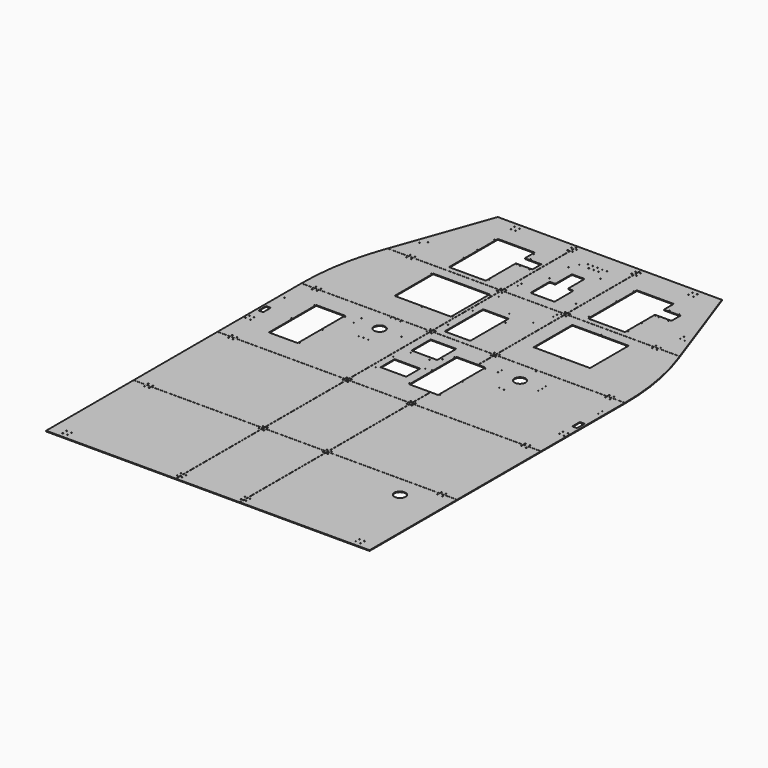
from build123d import *

# Parameters (mm, degrees)
F0_R      = 3
F0_R_2    = 2.05
F0_W      = 160
F0_H      = 110
F0_R_3    = 2.5
F0_H_2    = 150
F1_DEPTH  = 4.5
F2_R      = 3
F2_R_2    = 2.05
F2_W      = 352
F2_H      = 302
F3_DEPTH  = 4.5
F2_R_3    = 2.5
F4_DEPTH  = 4.5
F5_W      = 400
F5_H      = 550
F5_R      = 3
F5_R_2    = 2.05
F5_W_2    = 160
F5_H_2    = 300
F6_DEPTH  = 4.5
F7_W      = 400
F7_H      = 595
F7_R      = 3
F7_R_2    = 2.05
F7_R_3    = 2.5
F8_DEPTH  = 4.5
F9_W      = 810
F9_H      = 655
F9_R      = 3
F9_R_2    = 2.5
F9_W_2    = 30
F9_H_2    = 60
F9_W_3    = 180
F9_H_3    = 370
F9_R_3    = 2.05
F9_R_4    = 35
F10_DEPTH = 4.5
F12_R     = 5
F12_2_R   = 5
F12_3_R   = 5
F12_4_R   = 5
F12_5_R   = 5
F13_W     = 810
F13_H     = 655
F13_R     = 3
F14_DEPTH = 4.5
F15_W     = 400
F15_H     = 655
F15_R     = 3
F16_DEPTH = 4.5
F17_W     = 810
F17_H     = 683
F17_R     = 3
F18_DEPTH = 4.5
F17_R_2   = 35
F19_W     = 400
F19_H     = 683
F19_R     = 3
F20_DEPTH = 4.5
F21_W     = 1017.71641922
F21_H     = 1
F21_W_2   = 1
F21_H_2   = 549
F21_W_3   = 935.9718675613
F21_H_3   = 654
F21_W_4   = 399
F21_H_4   = 796.8422384262
F21_W_5   = 1292.1470518112
F21_W_6   = 1074.7201557159
F21_W_7   = 863.0281324387
F21_W_8   = 874.6051902771
F21_W_9   = 826.4008874893
F21_H_5   = 842.1577615738
F21_W_10  = 869.8097581863
F22_DEPTH = 8.501


with BuildPart() as f1:
    # F0 (on Top) → F1 (new body)
    with BuildSketch(Plane.XY):
        Polygon((-200, -327.5), (200, -327.5), (200, -176.5), (67, -176.5), (67, 193.5), (200, 193.5), (200, 327.5), (-200, 327.5), align=None)
        with Locations((-185, -312.5)):
            Circle(F0_R, mode=Mode.SUBTRACT)
        with Locations((-175, -137.5)):
            Circle(F0_R_2, mode=Mode.SUBTRACT)
        with Locations((-75, -68.5)):
            Rectangle(F0_W, F0_H, mode=Mode.SUBTRACT)
        with Locations((61, -168.5)):
            Circle(F0_R_3, mode=Mode.SUBTRACT)
        with Locations((185, -312.5)):
            Circle(F0_R, mode=Mode.SUBTRACT)
        with Locations((25, -137.5)):
            Circle(F0_R_2, mode=Mode.SUBTRACT)
        with Locations((-175, 0.5)):
            Circle(F0_R_2, mode=Mode.SUBTRACT)
        with Locations((-177.5, 131.5)):
            Circle(F0_R_2, mode=Mode.SUBTRACT)
        with Locations((-134.5, 86.5)):
            Circle(F0_R_2, mode=Mode.SUBTRACT)
        with Locations((-17.5, 86.5)):
            Circle(F0_R_2, mode=Mode.SUBTRACT)
        with Locations((-185, 312.5)):
            Circle(F0_R, mode=Mode.SUBTRACT)
        with Locations((-67.5, 184)):
            Rectangle(F0_W, F0_H_2, mode=Mode.SUBTRACT)
        with Locations((25, 0.5)):
            Circle(F0_R_2, mode=Mode.SUBTRACT)
        with Locations((61, 8.5)):
            Circle(F0_R_3, mode=Mode.SUBTRACT)
        with Locations((27.5, 131.5)):
            Circle(F0_R_2, mode=Mode.SUBTRACT)
        with Locations((61, 185.5)):
            Circle(F0_R_3, mode=Mode.SUBTRACT)
        with Locations((185, 312.5)):
            Circle(F0_R, mode=Mode.SUBTRACT)
    extrude(amount=F1_DEPTH)

    # F12
    f12_edges = [f1.edges().sort_by_distance(p)[0] for p in [
        (-147.5, 109, 2.25),
        (12.5, 109, 2.25),
        (12.5, 259, 2.25),
        (-147.5, 259, 2.25),
    ]]
    fillet(f12_edges, radius=F12_R)


with BuildPart() as f3:
    # F2 (on Top) → F3 (new body)
    with BuildSketch(Plane.XY):
        with BuildLine():
            Line((-200, 327.5), (-200, 877.5))
            Line((-200, 877.5), (-912, 877.5))
            Line((-912, 877.5), (-918.7126851943, 858.6601524029))
            ThreePointArc((-918.7126851943, 858.6601524029), (-986.7602398243, 599.9260960411), (-1010, 333.4046238114))
            Line((-1010, 333.4046238114), (-1010, 327.5))
            Line((-1010, 327.5), (-200, 327.5))
        make_face()
        with Locations((-930, 342.5)):
            Circle(F2_R, mode=Mode.SUBTRACT)
        with Locations((-900, 342.5)):
            Circle(F2_R, mode=Mode.SUBTRACT)
        with Locations((-578.5, 514)):
            Circle(F2_R_2, mode=Mode.SUBTRACT)
        with Locations((-215, 342.5)):
            Circle(F2_R, mode=Mode.SUBTRACT)
        with Locations((-396.5, 502)):
            Circle(F2_R_2, mode=Mode.SUBTRACT)
        with Locations((-214.5, 514)):
            Circle(F2_R_2, mode=Mode.SUBTRACT)
        with Locations((-782, 862.5)):
            Circle(F2_R, mode=Mode.SUBTRACT)
        with Locations((-578.5, 804)):
            Circle(F2_R_2, mode=Mode.SUBTRACT)
        with Locations((-752, 862.5)):
            Circle(F2_R, mode=Mode.SUBTRACT)
        with Locations((-396.5, 659)):
            Rectangle(F2_W, F2_H, mode=Mode.SUBTRACT)
        with Locations((-396.5, 816)):
            Circle(F2_R_2, mode=Mode.SUBTRACT)
        with Locations((-214.5, 804)):
            Circle(F2_R_2, mode=Mode.SUBTRACT)
        with Locations((-215, 862.5)):
            Circle(F2_R, mode=Mode.SUBTRACT)
    extrude(amount=F3_DEPTH)


with BuildPart() as f3b:
    # F2 (on Top) → F3, piece 2 (new body)
    with BuildSketch(Plane.XY):
        with BuildLine():
            Line((912, 877.5), (200, 877.5))
            Line((200, 877.5), (200, 327.5))
            Line((200, 327.5), (1010, 327.5))
            ThreePointArc((1010, 327.5), (987.2630336724, 597.0169120312), (918.7126851943, 858.6601524029))
            Line((918.7126851943, 858.6601524029), (912, 877.5))
        make_face()
        with Locations((215, 342.5)):
            Circle(F2_R, mode=Mode.SUBTRACT)
        with Locations((290, 514)):
            Circle(F2_R_2, mode=Mode.SUBTRACT)
        with Locations((472, 502)):
            Circle(F2_R_2, mode=Mode.SUBTRACT)
        with Locations((900, 342.5)):
            Circle(F2_R, mode=Mode.SUBTRACT)
        with Locations((930, 342.5)):
            Circle(F2_R, mode=Mode.SUBTRACT)
        with Locations((654, 514)):
            Circle(F2_R_2, mode=Mode.SUBTRACT)
        with Locations((472, 659)):
            Rectangle(F2_W, F2_H, mode=Mode.SUBTRACT)
        with Locations((215, 862.5)):
            Circle(F2_R, mode=Mode.SUBTRACT)
        with Locations((290, 804)):
            Circle(F2_R_2, mode=Mode.SUBTRACT)
        with Locations((472, 816)):
            Circle(F2_R_2, mode=Mode.SUBTRACT)
        with Locations((654, 804)):
            Circle(F2_R_2, mode=Mode.SUBTRACT)
        with Locations((752, 862.5)):
            Circle(F2_R, mode=Mode.SUBTRACT)
        with Locations((782, 862.5)):
            Circle(F2_R, mode=Mode.SUBTRACT)
    extrude(amount=F3_DEPTH)


with BuildPart() as f4:
    # F2 (on Top) → F4 (new body)
    with BuildSketch(Plane.XY):
        Polygon((-912, 877.5), (-200, 877.5), (-200, 1472.5), (-700, 1472.5), align=None)
        with Locations((-782, 892.5)):
            Circle(F2_R, mode=Mode.SUBTRACT)
        with Locations((-752, 892.5)):
            Circle(F2_R, mode=Mode.SUBTRACT)
        with Locations((-215, 892.5)):
            Circle(F2_R, mode=Mode.SUBTRACT)
        with Locations((-828.5, 1022.5)):
            Circle(F2_R_2, mode=Mode.SUBTRACT)
        with Locations((-798.5, 1022.5)):
            Circle(F2_R_2, mode=Mode.SUBTRACT)
        with Locations((-562, 927.5)):
            Circle(F2_R_2, mode=Mode.SUBTRACT)
        with Locations((-562, 1033.5)):
            Circle(F2_R_2, mode=Mode.SUBTRACT)
        with Locations((-828.5, 1052.5)):
            Circle(F2_R_2, mode=Mode.SUBTRACT)
        with Locations((-798.5, 1052.5)):
            Circle(F2_R_2, mode=Mode.SUBTRACT)
        with Locations((-562, 1139.5)):
            Circle(F2_R_2, mode=Mode.SUBTRACT)
        with Locations((-318, 927.5)):
            Circle(F2_R_2, mode=Mode.SUBTRACT)
        with Locations((-318, 1033.5)):
            Circle(F2_R_2, mode=Mode.SUBTRACT)
        Polygon((-325, 1292), (-325, 1215.5), (-222, 1215.5), (-222, 1145.5), (-325, 1145.5), (-325, 911), (-555, 911), (-555, 1292), align=None, mode=Mode.SUBTRACT)
        with Locations((-318, 1139.5)):
            Circle(F2_R_2, mode=Mode.SUBTRACT)
        with Locations((-295, 1138.5)):
            Circle(F2_R_3, mode=Mode.SUBTRACT)
        with Locations((-235, 1138.5)):
            Circle(F2_R_3, mode=Mode.SUBTRACT)
        with Locations((-562, 1275.5)):
            Circle(F2_R_2, mode=Mode.SUBTRACT)
        with Locations((-570, 1412.5)):
            Circle(F2_R, mode=Mode.SUBTRACT)
        with Locations((-540, 1412.5)):
            Circle(F2_R, mode=Mode.SUBTRACT)
        with Locations((-570, 1442.5)):
            Circle(F2_R, mode=Mode.SUBTRACT)
        with Locations((-540, 1442.5)):
            Circle(F2_R, mode=Mode.SUBTRACT)
        with Locations((-295, 1222.5)):
            Circle(F2_R_3, mode=Mode.SUBTRACT)
        with Locations((-318, 1275.5)):
            Circle(F2_R_2, mode=Mode.SUBTRACT)
        with Locations((-235, 1222.5)):
            Circle(F2_R_3, mode=Mode.SUBTRACT)
        with Locations((-215, 1412.5)):
            Circle(F2_R, mode=Mode.SUBTRACT)
        with Locations((-215, 1442.5)):
            Circle(F2_R, mode=Mode.SUBTRACT)
    extrude(amount=F4_DEPTH)


with BuildPart() as f4b:
    # F2 (on Top) → F4, piece 2 (new body)
    with BuildSketch(Plane.XY):
        Polygon((700, 1472.5), (200, 1472.5), (200, 877.5), (912, 877.5), align=None)
        with Locations((215, 892.5)):
            Circle(F2_R, mode=Mode.SUBTRACT)
        with Locations((752, 892.5)):
            Circle(F2_R, mode=Mode.SUBTRACT)
        with Locations((782, 892.5)):
            Circle(F2_R, mode=Mode.SUBTRACT)
        with Locations((306.5, 927.5)):
            Circle(F2_R_2, mode=Mode.SUBTRACT)
        with Locations((306.5, 1033.5)):
            Circle(F2_R_2, mode=Mode.SUBTRACT)
        Polygon((543.5, 1145.5), (543.5, 911), (313.5, 911), (313.5, 1292), (543.5, 1292), (543.5, 1215.5), (646.5, 1215.5), (646.5, 1145.5), align=None, mode=Mode.SUBTRACT)
        with Locations((306.5, 1139.5)):
            Circle(F2_R_2, mode=Mode.SUBTRACT)
        with Locations((550.5, 927.5)):
            Circle(F2_R_2, mode=Mode.SUBTRACT)
        with Locations((550.5, 1033.5)):
            Circle(F2_R_2, mode=Mode.SUBTRACT)
        with Locations((798.5, 1022.5)):
            Circle(F2_R_2, mode=Mode.SUBTRACT)
        with Locations((828.5, 1022.5)):
            Circle(F2_R_2, mode=Mode.SUBTRACT)
        with Locations((550.5, 1139.5)):
            Circle(F2_R_2, mode=Mode.SUBTRACT)
        with Locations((573.5, 1138.5)):
            Circle(F2_R_3, mode=Mode.SUBTRACT)
        with Locations((633.5, 1138.5)):
            Circle(F2_R_3, mode=Mode.SUBTRACT)
        with Locations((798.5, 1052.5)):
            Circle(F2_R_2, mode=Mode.SUBTRACT)
        with Locations((828.5, 1052.5)):
            Circle(F2_R_2, mode=Mode.SUBTRACT)
        with Locations((306.5, 1275.5)):
            Circle(F2_R_2, mode=Mode.SUBTRACT)
        with Locations((215, 1412.5)):
            Circle(F2_R, mode=Mode.SUBTRACT)
        with Locations((215, 1442.5)):
            Circle(F2_R, mode=Mode.SUBTRACT)
        with Locations((573.5, 1222.5)):
            Circle(F2_R_3, mode=Mode.SUBTRACT)
        with Locations((633.5, 1222.5)):
            Circle(F2_R_3, mode=Mode.SUBTRACT)
        with Locations((550.5, 1275.5)):
            Circle(F2_R_2, mode=Mode.SUBTRACT)
        with Locations((540, 1412.5)):
            Circle(F2_R, mode=Mode.SUBTRACT)
        with Locations((570, 1412.5)):
            Circle(F2_R, mode=Mode.SUBTRACT)
        with Locations((540, 1442.5)):
            Circle(F2_R, mode=Mode.SUBTRACT)
        with Locations((570, 1442.5)):
            Circle(F2_R, mode=Mode.SUBTRACT)
    extrude(amount=F4_DEPTH)


with BuildPart() as f6:
    # F5 (on Top) → F6 (new body)
    with BuildSketch(Plane.XY):
        with Locations((0, 602.5)):
            Rectangle(F5_W, F5_H)
        with Locations((-185, 342.5)):
            Circle(F5_R, mode=Mode.SUBTRACT)
        with Locations((-177.5, 431.5)):
            Circle(F5_R_2, mode=Mode.SUBTRACT)
        with Locations((-67.5, 517.5)):
            Rectangle(F5_W_2, F5_H_2, mode=Mode.SUBTRACT)
        with Locations((27.5, 431.5)):
            Circle(F5_R_2, mode=Mode.SUBTRACT)
        with Locations((185, 342.5)):
            Circle(F5_R, mode=Mode.SUBTRACT)
        with Locations((-177.5, 624.1)):
            Circle(F5_R_2, mode=Mode.SUBTRACT)
        with Locations((-132.5, 709.1)):
            Circle(F5_R_2, mode=Mode.SUBTRACT)
        with Locations((-17.5, 709.1)):
            Circle(F5_R_2, mode=Mode.SUBTRACT)
        with Locations((-170, 817.5)):
            Circle(F5_R_2, mode=Mode.SUBTRACT)
        with Locations((-185, 862.5)):
            Circle(F5_R, mode=Mode.SUBTRACT)
        with Locations((-170, 847.5)):
            Circle(F5_R_2, mode=Mode.SUBTRACT)
        with Locations((27.5, 624.1)):
            Circle(F5_R_2, mode=Mode.SUBTRACT)
        with Locations((132.5, 709.1)):
            Circle(F5_R_2, mode=Mode.SUBTRACT)
        with Locations((170, 817.5)):
            Circle(F5_R_2, mode=Mode.SUBTRACT)
        with Locations((170, 847.5)):
            Circle(F5_R_2, mode=Mode.SUBTRACT)
        with Locations((185, 862.5)):
            Circle(F5_R, mode=Mode.SUBTRACT)
    extrude(amount=F6_DEPTH)

    # F12#2
    f12_2_edges = [f6.edges().sort_by_distance(p)[0] for p in [
        (-147.5, 367.5, 2.25),
        (12.5, 367.5, 2.25),
        (-147.5, 667.5, 2.25),
        (12.5, 667.5, 2.25),
    ]]
    fillet(f12_2_edges, radius=F12_2_R)


with BuildPart() as f8:
    # F7 (on Top) → F8 (new body)
    with BuildSketch(Plane.XY):
        with Locations((0, 1175)):
            Rectangle(F7_W, F7_H)
        with Locations((-185, 892.5)):
            Circle(F7_R, mode=Mode.SUBTRACT)
        with Locations((-170, 965.5)):
            Circle(F7_R_2, mode=Mode.SUBTRACT)
        with Locations((-170, 995.5)):
            Circle(F7_R_2, mode=Mode.SUBTRACT)
        with Locations((-100, 1125)):
            Circle(F7_R_3, mode=Mode.SUBTRACT)
        with Locations((185, 892.5)):
            Circle(F7_R, mode=Mode.SUBTRACT)
        with Locations((170, 965.5)):
            Circle(F7_R_2, mode=Mode.SUBTRACT)
        with Locations((170, 995.5)):
            Circle(F7_R_2, mode=Mode.SUBTRACT)
        Polygon((75, 1096.5), (75, 946.5), (-75, 946.5), (-75, 1096.5), (-40, 1096.5), (-40, 1226.5), (40, 1226.5), (40, 1096.5), align=None, mode=Mode.SUBTRACT)
        with Locations((100, 1125)):
            Circle(F7_R_3, mode=Mode.SUBTRACT)
        with Locations((-100, 1275)):
            Circle(F7_R_3, mode=Mode.SUBTRACT)
        with Locations((-185, 1412.5)):
            Circle(F7_R, mode=Mode.SUBTRACT)
        with Locations((-185, 1442.5)):
            Circle(F7_R, mode=Mode.SUBTRACT)
        with Locations((-75, 1327.6)):
            Circle(F7_R_2, mode=Mode.SUBTRACT)
        with Locations((-75, 1357.6)):
            Circle(F7_R_2, mode=Mode.SUBTRACT)
        with Locations((-45, 1327.6)):
            Circle(F7_R_2, mode=Mode.SUBTRACT)
        with Locations((-45, 1357.6)):
            Circle(F7_R_2, mode=Mode.SUBTRACT)
        with Locations((-15, 1327.6)):
            Circle(F7_R, mode=Mode.SUBTRACT)
        with Locations((-15, 1357.6)):
            Circle(F7_R, mode=Mode.SUBTRACT)
        with Locations((100, 1275)):
            Circle(F7_R_3, mode=Mode.SUBTRACT)
        with Locations((15, 1327.6)):
            Circle(F7_R, mode=Mode.SUBTRACT)
        with Locations((15, 1357.6)):
            Circle(F7_R, mode=Mode.SUBTRACT)
        with Locations((45, 1327.6)):
            Circle(F7_R_2, mode=Mode.SUBTRACT)
        with Locations((45, 1357.6)):
            Circle(F7_R_2, mode=Mode.SUBTRACT)
        with Locations((75, 1327.6)):
            Circle(F7_R_2, mode=Mode.SUBTRACT)
        with Locations((75, 1357.6)):
            Circle(F7_R_2, mode=Mode.SUBTRACT)
        with Locations((185, 1412.5)):
            Circle(F7_R, mode=Mode.SUBTRACT)
        with Locations((185, 1442.5)):
            Circle(F7_R, mode=Mode.SUBTRACT)
    extrude(amount=F8_DEPTH)

    # F12#3
    f12_3_edges = [f8.edges().sort_by_distance(p)[0] for p in [
        (75, 1096.5, 2.25),
        (-75, 1096.5, 2.25),
        (-75, 946.5, 2.25),
        (75, 946.5, 2.25),
        (40, 1096.5, 2.25),
        (-40, 1096.5, 2.25),
        (40, 1226.5, 2.25),
        (-40, 1226.5, 2.25),
    ]]
    fillet(f12_3_edges, radius=F12_3_R)


with BuildPart() as f10:
    # F9 (on Top) → F10 (new body)
    with BuildSketch(Plane.XY):
        with Locations((-605, 0)):
            Rectangle(F9_W, F9_H)
        with Locations((-930, -312.5)):
            Circle(F9_R, mode=Mode.SUBTRACT)
        with Locations((-900, -312.5)):
            Circle(F9_R, mode=Mode.SUBTRACT)
        with Locations((-816, -168.5)):
            Circle(F9_R_2, mode=Mode.SUBTRACT)
        with Locations((-624, -168.5)):
            Circle(F9_R_2, mode=Mode.SUBTRACT)
        with Locations((-215, -312.5)):
            Circle(F9_R, mode=Mode.SUBTRACT)
        with Locations((-995, -127.5)):
            Circle(F9_R, mode=Mode.SUBTRACT)
        with Locations((-965, -127.5)):
            Circle(F9_R, mode=Mode.SUBTRACT)
        with Locations((-995, -97.5)):
            Circle(F9_R, mode=Mode.SUBTRACT)
        with Locations((-965, -97.5)):
            Circle(F9_R, mode=Mode.SUBTRACT)
        with Locations((-980, 2.5)):
            Rectangle(F9_W_2, F9_H_2, mode=Mode.SUBTRACT)
        with Locations((-816, 8.5)):
            Circle(F9_R_2, mode=Mode.SUBTRACT)
        with Locations((-720, 8.5)):
            Rectangle(F9_W_3, F9_H_3, mode=Mode.SUBTRACT)
        with Locations((-624, 8.5)):
            Circle(F9_R_2, mode=Mode.SUBTRACT)
        with Locations((-980, 157.5)):
            Circle(F9_R_3, mode=Mode.SUBTRACT)
        with Locations((-551, 162.5)):
            Circle(F9_R_3, mode=Mode.SUBTRACT)
        with Locations((-443.5, 67.5)):
            Circle(F9_R_3, mode=Mode.SUBTRACT)
        with Locations((-413.5, 67.5)):
            Circle(F9_R_3, mode=Mode.SUBTRACT)
        with Locations((-383.5, 67.5)):
            Circle(F9_R_3, mode=Mode.SUBTRACT)
        with Locations((-276, 162.5)):
            Circle(F9_R_3, mode=Mode.SUBTRACT)
        with Locations((-980, 187.5)):
            Circle(F9_R_3, mode=Mode.SUBTRACT)
        with Locations((-816, 185.5)):
            Circle(F9_R_2, mode=Mode.SUBTRACT)
        with Locations((-624, 185.5)):
            Circle(F9_R_2, mode=Mode.SUBTRACT)
        with Locations((-551, 192.5)):
            Circle(F9_R_3, mode=Mode.SUBTRACT)
        with Locations((-551, 222.5)):
            Circle(F9_R_3, mode=Mode.SUBTRACT)
        with Locations((-930, 312.5)):
            Circle(F9_R, mode=Mode.SUBTRACT)
        with Locations((-900, 312.5)):
            Circle(F9_R, mode=Mode.SUBTRACT)
        with Locations((-413.5, 192.5)):
            Circle(F9_R_4, mode=Mode.SUBTRACT)
        with Locations((-276, 192.5)):
            Circle(F9_R_3, mode=Mode.SUBTRACT)
        with Locations((-276, 222.5)):
            Circle(F9_R_3, mode=Mode.SUBTRACT)
        with Locations((-443.5, 317.5)):
            Circle(F9_R_3, mode=Mode.SUBTRACT)
        with Locations((-413.5, 317.5)):
            Circle(F9_R_3, mode=Mode.SUBTRACT)
        with Locations((-383.5, 317.5)):
            Circle(F9_R_3, mode=Mode.SUBTRACT)
        with Locations((-215, 312.5)):
            Circle(F9_R, mode=Mode.SUBTRACT)
    extrude(amount=F10_DEPTH)

    # F12#5
    f12_5_edges = [f10.edges().sort_by_distance(p)[0] for p in [
        (-995, 32.5, 2.25),
        (-965, 32.5, 2.25),
        (-965, -27.5, 2.25),
        (-995, -27.5, 2.25),
    ]]
    fillet(f12_5_edges, radius=F12_5_R)


with BuildPart() as f10b:
    # F9 (on Top) → F10, piece 2 (new body)
    with BuildSketch(Plane.XY):
        Polygon((200, -176.5), (200, -327.5), (1010, -327.5), (1010, 327.5), (200, 327.5), (200, 193.5), (247, 193.5), (247, -176.5), align=None)
        with Locations((215, -312.5)):
            Circle(F9_R, mode=Mode.SUBTRACT)
        with Locations((253, -168.5)):
            Circle(F9_R_2, mode=Mode.SUBTRACT)
        with Locations((900, -312.5)):
            Circle(F9_R, mode=Mode.SUBTRACT)
        with Locations((930, -312.5)):
            Circle(F9_R, mode=Mode.SUBTRACT)
        with Locations((965, -127.5)):
            Circle(F9_R, mode=Mode.SUBTRACT)
        with Locations((995, -127.5)):
            Circle(F9_R, mode=Mode.SUBTRACT)
        with Locations((965, -97.5)):
            Circle(F9_R, mode=Mode.SUBTRACT)
        with Locations((995, -97.5)):
            Circle(F9_R, mode=Mode.SUBTRACT)
        with Locations((253, 8.5)):
            Circle(F9_R_2, mode=Mode.SUBTRACT)
        with Locations((433.5, 67.5)):
            Circle(F9_R_3, mode=Mode.SUBTRACT)
        with Locations((463.5, 67.5)):
            Circle(F9_R_3, mode=Mode.SUBTRACT)
        with Locations((493.5, 67.5)):
            Circle(F9_R_3, mode=Mode.SUBTRACT)
        with Locations((326, 162.5)):
            Circle(F9_R_3, mode=Mode.SUBTRACT)
        with Locations((980, 2.5)):
            Rectangle(F9_W_2, F9_H_2, mode=Mode.SUBTRACT)
        with Locations((601, 162.5)):
            Circle(F9_R_3, mode=Mode.SUBTRACT)
        with Locations((980, 157.5)):
            Circle(F9_R_3, mode=Mode.SUBTRACT)
        with Locations((253, 185.5)):
            Circle(F9_R_2, mode=Mode.SUBTRACT)
        with Locations((326, 192.5)):
            Circle(F9_R_3, mode=Mode.SUBTRACT)
        with Locations((463.5, 192.5)):
            Circle(F9_R_4, mode=Mode.SUBTRACT)
        with Locations((326, 222.5)):
            Circle(F9_R_3, mode=Mode.SUBTRACT)
        with Locations((215, 312.5)):
            Circle(F9_R, mode=Mode.SUBTRACT)
        with Locations((433.5, 317.5)):
            Circle(F9_R_3, mode=Mode.SUBTRACT)
        with Locations((463.5, 317.5)):
            Circle(F9_R_3, mode=Mode.SUBTRACT)
        with Locations((493.5, 317.5)):
            Circle(F9_R_3, mode=Mode.SUBTRACT)
        with Locations((601, 192.5)):
            Circle(F9_R_3, mode=Mode.SUBTRACT)
        with Locations((601, 222.5)):
            Circle(F9_R_3, mode=Mode.SUBTRACT)
        with Locations((980, 187.5)):
            Circle(F9_R_3, mode=Mode.SUBTRACT)
        with Locations((900, 312.5)):
            Circle(F9_R, mode=Mode.SUBTRACT)
        with Locations((930, 312.5)):
            Circle(F9_R, mode=Mode.SUBTRACT)
    extrude(amount=F10_DEPTH)

    # F12#4
    f12_4_edges = [f10b.edges().sort_by_distance(p)[0] for p in [
        (965, 32.5, 2.25),
        (965, -27.5, 2.25),
        (995, 32.5, 2.25),
        (995, -27.5, 2.25),
    ]]
    fillet(f12_4_edges, radius=F12_4_R)


with BuildPart() as f14:
    # F13 (on Top) → F14 (new body)
    with BuildSketch(Plane.XY):
        with Locations((-605, -655)):
            Rectangle(F13_W, F13_H)
        with Locations((-930, -967.5)):
            Circle(F13_R, mode=Mode.SUBTRACT)
        with Locations((-900, -967.5)):
            Circle(F13_R, mode=Mode.SUBTRACT)
        with Locations((-215, -967.5)):
            Circle(F13_R, mode=Mode.SUBTRACT)
        with Locations((-930, -342.5)):
            Circle(F13_R, mode=Mode.SUBTRACT)
        with Locations((-900, -342.5)):
            Circle(F13_R, mode=Mode.SUBTRACT)
        with Locations((-215, -342.5)):
            Circle(F13_R, mode=Mode.SUBTRACT)
    extrude(amount=F14_DEPTH)


with BuildPart() as f14b:
    # F13 (on Top) → F14, piece 2 (new body)
    with BuildSketch(Plane.XY):
        with Locations((605, -655)):
            Rectangle(F13_W, F13_H)
        with Locations((215, -967.5)):
            Circle(F13_R, mode=Mode.SUBTRACT)
        with Locations((900, -967.5)):
            Circle(F13_R, mode=Mode.SUBTRACT)
        with Locations((930, -967.5)):
            Circle(F13_R, mode=Mode.SUBTRACT)
        with Locations((215, -342.5)):
            Circle(F13_R, mode=Mode.SUBTRACT)
        with Locations((900, -342.5)):
            Circle(F13_R, mode=Mode.SUBTRACT)
        with Locations((930, -342.5)):
            Circle(F13_R, mode=Mode.SUBTRACT)
    extrude(amount=F14_DEPTH)


with BuildPart() as f16:
    # F15 (on Top) → F16 (new body)
    with BuildSketch(Plane.XY):
        with Locations((0, -655)):
            Rectangle(F15_W, F15_H)
        with Locations((-185, -967.5)):
            Circle(F15_R, mode=Mode.SUBTRACT)
        with Locations((185, -967.5)):
            Circle(F15_R, mode=Mode.SUBTRACT)
        with Locations((-185, -342.5)):
            Circle(F15_R, mode=Mode.SUBTRACT)
        with Locations((185, -342.5)):
            Circle(F15_R, mode=Mode.SUBTRACT)
    extrude(amount=F16_DEPTH)


with BuildPart() as f18:
    # F17 (on Top) → F18 (new body)
    with BuildSketch(Plane.XY):
        with Locations((-605, -1324)):
            Rectangle(F17_W, F17_H)
        with Locations((-930, -1635.5)):
            Circle(F17_R, mode=Mode.SUBTRACT)
        with Locations((-900, -1635.5)):
            Circle(F17_R, mode=Mode.SUBTRACT)
        with Locations((-930, -1605.5)):
            Circle(F17_R, mode=Mode.SUBTRACT)
        with Locations((-900, -1605.5)):
            Circle(F17_R, mode=Mode.SUBTRACT)
        with Locations((-215, -1635.5)):
            Circle(F17_R, mode=Mode.SUBTRACT)
        with Locations((-215, -1605.5)):
            Circle(F17_R, mode=Mode.SUBTRACT)
        with Locations((-930, -997.5)):
            Circle(F17_R, mode=Mode.SUBTRACT)
        with Locations((-900, -997.5)):
            Circle(F17_R, mode=Mode.SUBTRACT)
        with Locations((-215, -997.5)):
            Circle(F17_R, mode=Mode.SUBTRACT)
    extrude(amount=F18_DEPTH)


with BuildPart() as f18b:
    # F17 (on Top) → F18, piece 2 (new body)
    with BuildSketch(Plane.XY):
        with Locations((605, -1324)):
            Rectangle(F17_W, F17_H)
        with Locations((215, -1635.5)):
            Circle(F17_R, mode=Mode.SUBTRACT)
        with Locations((215, -1605.5)):
            Circle(F17_R, mode=Mode.SUBTRACT)
        with Locations((900, -1635.5)):
            Circle(F17_R, mode=Mode.SUBTRACT)
        with Locations((930, -1635.5)):
            Circle(F17_R, mode=Mode.SUBTRACT)
        with Locations((900, -1605.5)):
            Circle(F17_R, mode=Mode.SUBTRACT)
        with Locations((930, -1605.5)):
            Circle(F17_R, mode=Mode.SUBTRACT)
        with Locations((215, -997.5)):
            Circle(F17_R, mode=Mode.SUBTRACT)
        with Locations((760, -1115.5)):
            Circle(F17_R_2, mode=Mode.SUBTRACT)
        with Locations((900, -997.5)):
            Circle(F17_R, mode=Mode.SUBTRACT)
        with Locations((930, -997.5)):
            Circle(F17_R, mode=Mode.SUBTRACT)
    extrude(amount=F18_DEPTH)


with BuildPart() as f20:
    # F19 (on Top) → F20 (new body)
    with BuildSketch(Plane.XY):
        with Locations((0, -1324)):
            Rectangle(F19_W, F19_H)
        with Locations((-185, -1635.5)):
            Circle(F19_R, mode=Mode.SUBTRACT)
        with Locations((-185, -1605.5)):
            Circle(F19_R, mode=Mode.SUBTRACT)
        with Locations((185, -1635.5)):
            Circle(F19_R, mode=Mode.SUBTRACT)
        with Locations((185, -1605.5)):
            Circle(F19_R, mode=Mode.SUBTRACT)
        with Locations((-185, -997.5)):
            Circle(F19_R, mode=Mode.SUBTRACT)
        with Locations((185, -997.5)):
            Circle(F19_R, mode=Mode.SUBTRACT)
    extrude(amount=F20_DEPTH)


with BuildPart() as f22_tool:
    # F21 (on offset) → F22 (new body, through all)
    with BuildSketch(Plane.XY.offset(8.5)):
        with Locations((-709.35820961, 327.5)):
            Rectangle(F21_W, F21_H)
        with Locations((-200, 602.5)):
            Rectangle(F21_W_2, F21_H_2)
        with Locations((-200, 327.5)):
            Rectangle(F21_W_2, F21_H)
        with Locations((-200, 877.5)):
            Rectangle(F21_W_2, F21_H)
        with Locations((-668.4859337807, 877.5)):
            Rectangle(F21_W_3, F21_H)
        with Locations((-200, 0)):
            Rectangle(F21_W_2, F21_H_3)
        with Locations((200, 602.5)):
            Rectangle(F21_W_2, F21_H_2)
        with Locations((200, 327.5)):
            Rectangle(F21_W_2, F21_H)
        with Locations((0, 877.5)):
            Rectangle(F21_W_4, F21_H)
        with Locations((-200, 1276.4211192131)):
            Rectangle(F21_W_2, F21_H_4)
        with Locations((-200, -327.5)):
            Rectangle(F21_W_2, F21_H)
        with Locations((-846.5735259056, -327.5)):
            Rectangle(F21_W_5, F21_H)
        with Locations((737.860077858, 327.5)):
            Rectangle(F21_W_6, F21_H)
        with Locations((200, 877.5)):
            Rectangle(F21_W_2, F21_H)
        with Locations((200, 0)):
            Rectangle(F21_W_2, F21_H_3)
        with Locations((-200, -655)):
            Rectangle(F21_W_2, F21_H_3)
        with Locations((632.0140662193, 877.5)):
            Rectangle(F21_W_7, F21_H)
        with Locations((200, 1276.4211192131)):
            Rectangle(F21_W_2, F21_H_4)
        with Locations((200, -327.5)):
            Rectangle(F21_W_2, F21_H)
        with Locations((-200, -982.5)):
            Rectangle(F21_W_2, F21_H)
        with Locations((-637.8025951385, -982.5)):
            Rectangle(F21_W_8, F21_H)
        with Locations((613.7004437447, -327.5)):
            Rectangle(F21_W_9, F21_H)
        with Locations((200, -655)):
            Rectangle(F21_W_2, F21_H_3)
        with Locations((0, -982.5)):
            Rectangle(F21_W_4, F21_H)
        with Locations((-200, -1404.0788807869)):
            Rectangle(F21_W_2, F21_H_5)
        with Locations((200, -982.5)):
            Rectangle(F21_W_2, F21_H)
        with Locations((635.4048790932, -982.5)):
            Rectangle(F21_W_10, F21_H)
        with Locations((200, -1404.0788807869)):
            Rectangle(F21_W_2, F21_H_5)
        with Locations((0, -327.5)):
            Rectangle(F21_W_4, F21_H)
        with Locations((0, 327.5)):
            Rectangle(F21_W_4, F21_H)
    extrude(amount=-F22_DEPTH)


with BuildPart() as f1_1:
    add(f1.part)

    # F22: cut by f22_tool
    add(f22_tool.part, mode=Mode.SUBTRACT)


with BuildPart() as f3_1:
    add(f3.part)

    # F22: cut by f22_tool
    add(f22_tool.part, mode=Mode.SUBTRACT)


with BuildPart() as f3b_1:
    add(f3b.part)

    # F22: cut by f22_tool
    add(f22_tool.part, mode=Mode.SUBTRACT)


with BuildPart() as f4_1:
    add(f4.part)

    # F22: cut by f22_tool
    add(f22_tool.part, mode=Mode.SUBTRACT)


with BuildPart() as f4b_1:
    add(f4b.part)

    # F22: cut by f22_tool
    add(f22_tool.part, mode=Mode.SUBTRACT)


with BuildPart() as f6_1:
    add(f6.part)

    # F22: cut by f22_tool
    add(f22_tool.part, mode=Mode.SUBTRACT)


with BuildPart() as f8_1:
    add(f8.part)

    # F22: cut by f22_tool
    add(f22_tool.part, mode=Mode.SUBTRACT)


with BuildPart() as f10_1:
    add(f10.part)

    # F22: cut by f22_tool
    add(f22_tool.part, mode=Mode.SUBTRACT)


with BuildPart() as f10b_1:
    add(f10b.part)

    # F22: cut by f22_tool
    add(f22_tool.part, mode=Mode.SUBTRACT)


with BuildPart() as f14_1:
    add(f14.part)

    # F22: cut by f22_tool
    add(f22_tool.part, mode=Mode.SUBTRACT)


with BuildPart() as f14b_1:
    add(f14b.part)

    # F22: cut by f22_tool
    add(f22_tool.part, mode=Mode.SUBTRACT)


with BuildPart() as f16_1:
    add(f16.part)

    # F22: cut by f22_tool
    add(f22_tool.part, mode=Mode.SUBTRACT)


with BuildPart() as f18_1:
    add(f18.part)

    # F22: cut by f22_tool
    add(f22_tool.part, mode=Mode.SUBTRACT)


with BuildPart() as f18b_1:
    add(f18b.part)

    # F22: cut by f22_tool
    add(f22_tool.part, mode=Mode.SUBTRACT)


with BuildPart() as f20_1:
    add(f20.part)

    # F22: cut by f22_tool
    add(f22_tool.part, mode=Mode.SUBTRACT)


solid = Compound([f1_1.part, f3_1.part, f3b_1.part, f4_1.part, f4b_1.part, f6_1.part, f8_1.part, f10_1.part, f10b_1.part, f14_1.part, f14b_1.part, f16_1.part, f18_1.part, f18b_1.part, f20_1.part])
